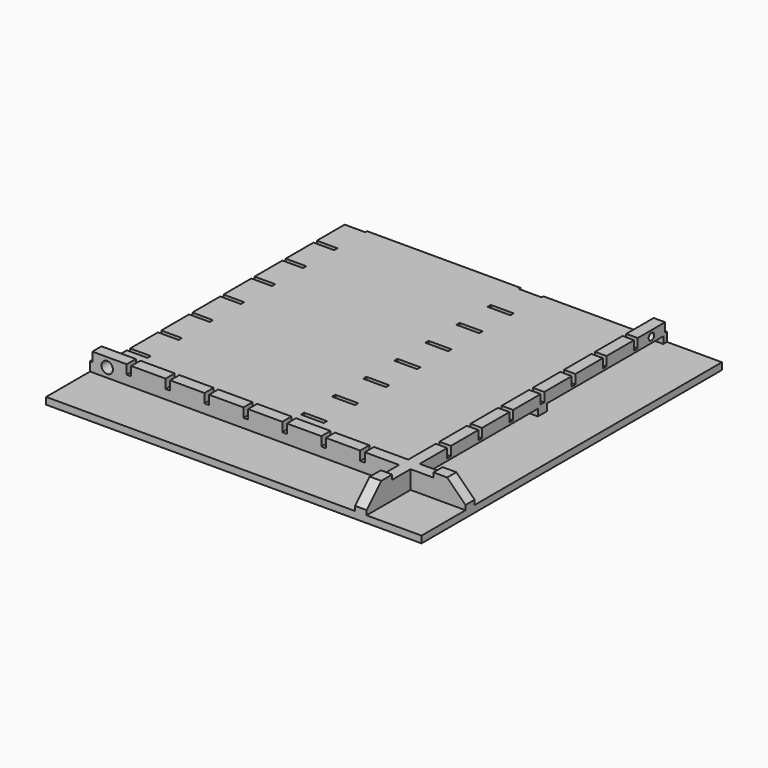
from build123d import *

# Parameters (mm, degrees)
SKETCH_W                           = 164
SKETCH_H                           = 164
PAD_DEPTH                          = 3
SKETCH001_W                        = 164
SKETCH001_H                        = 5
SKETCH001_W_2                      = 5
SKETCH001_H_2                      = 164
PAD001_DEPTH                       = 10
SKETCH005_W                        = 150
SKETCH005_H                        = 2
POCKET_DEPTH                       = 5
SKETCH006_W                        = 150
SKETCH006_H                        = 2
POCKET001_DEPTH                    = 5
SKETCH007_W                        = 2
SKETCH007_H                        = 4
POCKET002_DEPTH                    = 5
LINEARPATTERN_COUNT                = 9
LINEARPATTERN_PITCH                = 17
SKETCH008_W                        = 61.5
SKETCH008_H                        = 3
SKETCH008_W_2                      = 63.5
POCKET003_DEPTH                    = 5
SKETCH009_W                        = 2
SKETCH009_H                        = 4
POCKET004_DEPTH                    = 5
LINEARPATTERN001_COUNT             = 9
LINEARPATTERN001_PITCH             = 17
SKETCH010_W                        = 10
SKETCH010_H                        = 1.8
POCKET005_DEPTH                    = 5
SKETCH010_LINEARPATTERN002_2_W     = 10
SKETCH010_LINEARPATTERN002_2_H     = 1.8
POCKET005_LINEARPATTERN002_2_DEPTH = 5
SKETCH010_LINEARPATTERN002_3_W     = 10
SKETCH010_LINEARPATTERN002_3_H     = 1.8
POCKET005_LINEARPATTERN002_3_DEPTH = 5
SKETCH010_LINEARPATTERN002_4_W     = 10
SKETCH010_LINEARPATTERN002_4_H     = 1.8
POCKET005_LINEARPATTERN002_4_DEPTH = 5
SKETCH010_LINEARPATTERN002_5_W     = 10
SKETCH010_LINEARPATTERN002_5_H     = 1.8
POCKET005_LINEARPATTERN002_5_DEPTH = 5
SKETCH010_LINEARPATTERN002_6_W     = 10
SKETCH010_LINEARPATTERN002_6_H     = 1.8
POCKET005_LINEARPATTERN002_6_DEPTH = 5
SKETCH010_LINEARPATTERN002_7_W     = 10
SKETCH010_LINEARPATTERN002_7_H     = 1.8
POCKET005_LINEARPATTERN002_7_DEPTH = 5
SKETCH010_LINEARPATTERN002_8_W     = 10
SKETCH010_LINEARPATTERN002_8_H     = 1.8
POCKET005_LINEARPATTERN002_8_DEPTH = 5
SKETCH010_LINEARPATTERN002_9_W     = 10
SKETCH010_LINEARPATTERN002_9_H     = 1.8
POCKET005_LINEARPATTERN002_9_DEPTH = 5
LINEARPATTERN003_COUNT             = 2
LINEARPATTERN003_PITCH             = 77
SKETCH011_R                        = 2.5
POCKET006_DEPTH                    = 5
SKETCH012_R                        = 1.5
POCKET007_DEPTH                    = 5
CHAMFER_SIZE                       = 8


with BuildPart() as lb_plate:
    # Sketch → Pad (new body)
    with BuildSketch(Plane.XY):
        Rectangle(SKETCH_W, SKETCH_H)
    extrude(amount=PAD_DEPTH)

    # Sketch001 (on Face6 of Pad) → Pad001 (join)
    with BuildSketch(Plane.XY.offset(3)):
        with Locations((0, -55.5)):
            Rectangle(SKETCH001_W, SKETCH001_H)
        with Locations((-55.5, 0)):
            Rectangle(SKETCH001_W_2, SKETCH001_H_2)
    extrude(amount=PAD001_DEPTH)

    # Sketch005 → Pocket (cut)
    with BuildSketch(Plane(origin=(0, -53, 0), x_dir=(-1, 0, 0), z_dir=(0, 1, 0))):
        with Locations((-7, 12)):
            Rectangle(SKETCH005_W, SKETCH005_H)
    extrude(amount=-POCKET_DEPTH, mode=Mode.SUBTRACT)

    # Sketch006 (on Face15 of Pocket) → Pocket001 (cut)
    with BuildSketch(Plane.YZ.offset(-53)):
        with Locations((7, 12)):
            Rectangle(SKETCH006_W, SKETCH006_H)
    extrude(amount=-POCKET001_DEPTH, mode=Mode.SUBTRACT)

    # Sketch007 (on Face16 of Pocket001) → Pocket002 (cut)
    with BuildSketch(Plane.YZ.offset(-53)):
        with Locations((-37, 9)):
            Rectangle(SKETCH007_W, SKETCH007_H)
    pocket002 = extrude(amount=-POCKET002_DEPTH, mode=Mode.SUBTRACT)

    # LinearPattern: Pocket002 ×9
    with Locations(*[(0, i * LINEARPATTERN_PITCH, 0) for i in range(1, LINEARPATTERN_COUNT)]):
        add(pocket002, mode=Mode.SUBTRACT)

    # Sketch008 (on Face16 of LinearPattern) → Pocket003 (cut)
    with BuildSketch(Plane.YZ.offset(-53)):
        with Locations((-19.25, 4.5)):
            Rectangle(SKETCH008_W, SKETCH008_H)
        with Locations((48.25, 4.5)):
            Rectangle(SKETCH008_W_2, SKETCH008_H)
    extrude(amount=-POCKET003_DEPTH, mode=Mode.SUBTRACT)

    # Sketch009 (on Face19 of Pocket003) → Pocket004 (cut)
    with BuildSketch(Plane(origin=(0, -53, 0), x_dir=(-1, 0, 0), z_dir=(0, 1, 0))):
        with Locations((37, 9)):
            Rectangle(SKETCH009_W, SKETCH009_H)
    pocket004 = extrude(amount=-POCKET004_DEPTH, mode=Mode.SUBTRACT)

    # LinearPattern001: Pocket004 ×9
    with Locations(*[(i * LINEARPATTERN001_PITCH, 0, 0) for i in range(1, LINEARPATTERN001_COUNT)]):
        add(pocket004, mode=Mode.SUBTRACT)

    # Sketch010 (on Face7 of Pocket004) → Pocket005 (cut)
    with BuildSketch(Plane.XY.offset(3)):
        with Locations((1, -37)):
            Rectangle(SKETCH010_W, SKETCH010_H)
    pocket005 = extrude(amount=-POCKET005_DEPTH, mode=Mode.SUBTRACT)

    # Sketch010 LinearPattern002 2 → Pocket005 LinearPattern002 2 (cut)
    with BuildSketch(Plane(origin=(0, 16.9875, 3), x_dir=(1, 0, 0), z_dir=(0, 0, 1))):
        with Locations((1, -37)):
            Rectangle(SKETCH010_LINEARPATTERN002_2_W, SKETCH010_LINEARPATTERN002_2_H)
    pocket005_linearpattern002_2 = extrude(amount=-POCKET005_LINEARPATTERN002_2_DEPTH, mode=Mode.SUBTRACT)

    # Sketch010 LinearPattern002 3 → Pocket005 LinearPattern002 3 (cut)
    with BuildSketch(Plane(origin=(0, 33.975, 3), x_dir=(1, 0, 0), z_dir=(0, 0, 1))):
        with Locations((1, -37)):
            Rectangle(SKETCH010_LINEARPATTERN002_3_W, SKETCH010_LINEARPATTERN002_3_H)
    pocket005_linearpattern002_3 = extrude(amount=-POCKET005_LINEARPATTERN002_3_DEPTH, mode=Mode.SUBTRACT)

    # Sketch010 LinearPattern002 4 → Pocket005 LinearPattern002 4 (cut)
    with BuildSketch(Plane(origin=(0, 50.9625, 3), x_dir=(1, 0, 0), z_dir=(0, 0, 1))):
        with Locations((1, -37)):
            Rectangle(SKETCH010_LINEARPATTERN002_4_W, SKETCH010_LINEARPATTERN002_4_H)
    pocket005_linearpattern002_4 = extrude(amount=-POCKET005_LINEARPATTERN002_4_DEPTH, mode=Mode.SUBTRACT)

    # Sketch010 LinearPattern002 5 → Pocket005 LinearPattern002 5 (cut)
    with BuildSketch(Plane(origin=(0, 67.95, 3), x_dir=(1, 0, 0), z_dir=(0, 0, 1))):
        with Locations((1, -37)):
            Rectangle(SKETCH010_LINEARPATTERN002_5_W, SKETCH010_LINEARPATTERN002_5_H)
    pocket005_linearpattern002_5 = extrude(amount=-POCKET005_LINEARPATTERN002_5_DEPTH, mode=Mode.SUBTRACT)

    # Sketch010 LinearPattern002 6 → Pocket005 LinearPattern002 6 (cut)
    with BuildSketch(Plane(origin=(0, 84.9375, 3), x_dir=(1, 0, 0), z_dir=(0, 0, 1))):
        with Locations((1, -37)):
            Rectangle(SKETCH010_LINEARPATTERN002_6_W, SKETCH010_LINEARPATTERN002_6_H)
    pocket005_linearpattern002_6 = extrude(amount=-POCKET005_LINEARPATTERN002_6_DEPTH, mode=Mode.SUBTRACT)

    # Sketch010 LinearPattern002 7 → Pocket005 LinearPattern002 7 (cut)
    with BuildSketch(Plane(origin=(0, 101.925, 3), x_dir=(1, 0, 0), z_dir=(0, 0, 1))):
        with Locations((1, -37)):
            Rectangle(SKETCH010_LINEARPATTERN002_7_W, SKETCH010_LINEARPATTERN002_7_H)
    pocket005_linearpattern002_7 = extrude(amount=-POCKET005_LINEARPATTERN002_7_DEPTH, mode=Mode.SUBTRACT)

    # Sketch010 LinearPattern002 8 → Pocket005 LinearPattern002 8 (cut)
    with BuildSketch(Plane(origin=(0, 118.9125, 3), x_dir=(1, 0, 0), z_dir=(0, 0, 1))):
        with Locations((1, -37)):
            Rectangle(SKETCH010_LINEARPATTERN002_8_W, SKETCH010_LINEARPATTERN002_8_H)
    pocket005_linearpattern002_8 = extrude(amount=-POCKET005_LINEARPATTERN002_8_DEPTH, mode=Mode.SUBTRACT)

    # Sketch010 LinearPattern002 9 → Pocket005 LinearPattern002 9 (cut)
    with BuildSketch(Plane(origin=(0, 135.9, 3), x_dir=(1, 0, 0), z_dir=(0, 0, 1))):
        with Locations((1, -37)):
            Rectangle(SKETCH010_LINEARPATTERN002_9_W, SKETCH010_LINEARPATTERN002_9_H)
    pocket005_linearpattern002_9 = extrude(amount=-POCKET005_LINEARPATTERN002_9_DEPTH, mode=Mode.SUBTRACT)

    # LinearPattern003: Pocket005, Pocket005 LinearPattern002 2, Pocket005 LinearPattern002 3, Pocket005 LinearPattern002 4, Pocket005 LinearPattern002 5, Pocket005 LinearPattern002 6, Pocket005 LinearPattern002 7, Pocket005 LinearPattern002 8, Pocket005 LinearPattern002 9 ×2
    with Locations(*[(i * LINEARPATTERN003_PITCH, 0, 0) for i in range(1, LINEARPATTERN003_COUNT)]):
        add(pocket005, mode=Mode.SUBTRACT)
        add(pocket005_linearpattern002_2, mode=Mode.SUBTRACT)
        add(pocket005_linearpattern002_3, mode=Mode.SUBTRACT)
        add(pocket005_linearpattern002_4, mode=Mode.SUBTRACT)
        add(pocket005_linearpattern002_5, mode=Mode.SUBTRACT)
        add(pocket005_linearpattern002_6, mode=Mode.SUBTRACT)
        add(pocket005_linearpattern002_7, mode=Mode.SUBTRACT)
        add(pocket005_linearpattern002_8, mode=Mode.SUBTRACT)
        add(pocket005_linearpattern002_9, mode=Mode.SUBTRACT)

    # Sketch011 (on Face155 of MultiTransform) → Pocket006 (cut)
    with BuildSketch(Plane.XZ.offset(58)):
        with Locations((74.5, 7)):
            Circle(SKETCH011_R)
    extrude(amount=-POCKET006_DEPTH, mode=Mode.SUBTRACT)

    # Sketch012 (on Face75 of Pocket006) → Pocket007 (cut)
    with BuildSketch(Plane(origin=(-58, 0, 0), x_dir=(0, -1, 0), z_dir=(-1, 0, 0))):
        with Locations((-73.5, 8.5)):
            Circle(SKETCH012_R)
    extrude(amount=-POCKET007_DEPTH, mode=Mode.SUBTRACT)

    # Chamfer
    chamfer_edges = [lb_plate.edges().sort_by_distance(p)[0] for p in [
        (-82, -55.5, 13),
        (-55.5, -82, 13),
    ]]
    chamfer(chamfer_edges, length=CHAMFER_SIZE)


with BuildPart() as part_mirroring:
    # Part__Mirroring: instance of LB_plate
    add(lb_plate.part.mirror(Plane(origin=(82, 0, 0), x_dir=(0, -1, 0), z_dir=(1, 0, 0))))


solid = part_mirroring.part
